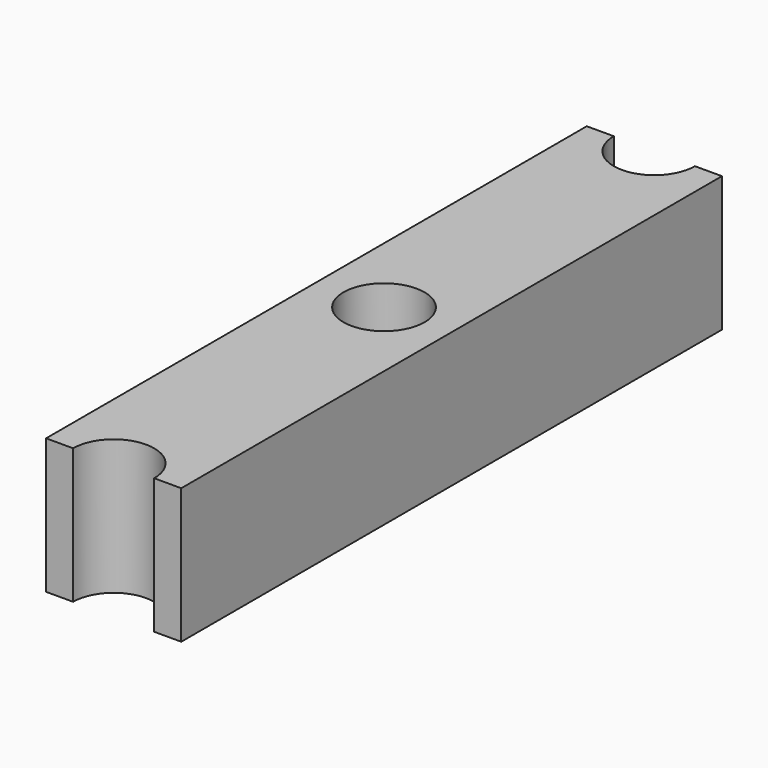
from build123d import *

# Parameters (mm, degrees)
F1_W     = 5
F1_H     = 25
F2_DEPTH = 5
F3_R     = 1.5
F4_DEPTH = 5.001


with BuildPart() as f2:
    # F1 (on Top) → F2 (new body)
    with BuildSketch(Plane.XY):
        with Locations((2.5, 12.5)):
            Rectangle(F1_W, F1_H)
    extrude(amount=F2_DEPTH)

    # F3 (on face) → F4 (cut, through all)
    with BuildSketch(Plane.XY.offset(5)):
        with Locations((2.5, 12.5)):
            Circle(F3_R)
        with BuildLine():
            Line((1, 0), (4, 0))
            ThreePointArc((4, 0), (2.5, 1.5), (1, 0))
        make_face()
        with BuildLine():
            ThreePointArc((1, 25), (2.5, 23.5), (4, 25))
            Line((4, 25), (1, 25))
        make_face()
    extrude(amount=-F4_DEPTH, mode=Mode.SUBTRACT)


solid = f2.part
